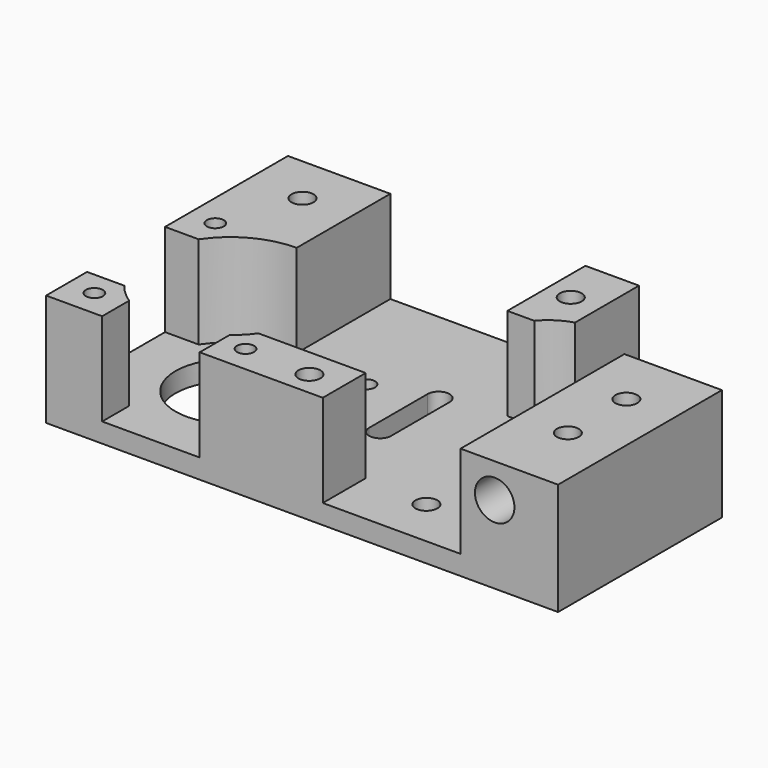
from build123d import *

# Parameters (mm, degrees)
SKETCH_R        = 2.25
SKETCH_R_2      = 11.25
SKETCH_R_3      = 1.75
PAD_DEPTH       = 23
POCKET_DEPTH    = 19
SKETCH004_R     = 2.25
POCKET003_DEPTH = 10
SKETCH005_R     = 4.05
POCKET004_DEPTH = 12
SKETCH006_R     = 3.75
POCKET005_DEPTH = 10


with BuildPart() as pocket005:
    # Sketch → Pad (new body)
    with BuildSketch(Plane.XY):
        Polygon((0, 0), (105, 0), (105, 62), (20, 62), (20, 42), (0, 42), align=None)
        with Locations((35, 10)):
            Circle(SKETCH_R, mode=Mode.SUBTRACT)
        with Locations((30, 35)):
            Circle(SKETCH_R, mode=Mode.SUBTRACT)
        with Locations((84, 21)):
            Circle(SKETCH_R_2, mode=Mode.SUBTRACT)
        with Locations((68.5, 36.5)):
            Circle(SKETCH_R_3, mode=Mode.SUBTRACT)
        with Locations((99.5, 36.5)):
            Circle(SKETCH_R_3, mode=Mode.SUBTRACT)
        with Locations((68.5, 5.5)):
            Circle(SKETCH_R_3, mode=Mode.SUBTRACT)
        with Locations((99.5, 5.5)):
            Circle(SKETCH_R_3, mode=Mode.SUBTRACT)
        with Locations((10, 30)):
            Circle(SKETCH_R, mode=Mode.SUBTRACT)
        with Locations((10, 15)):
            Circle(SKETCH_R, mode=Mode.SUBTRACT)
        with Locations((39, 52)):
            Circle(SKETCH_R, mode=Mode.SUBTRACT)
        with Locations((94, 52)):
            Circle(SKETCH_R, mode=Mode.SUBTRACT)
        with BuildLine():
            Line((58.75, 25), (58.75, 40))
            ThreePointArc((58.75, 40), (56.5, 42.25), (54.25, 40))
            Line((54.25, 25), (54.25, 40))
            ThreePointArc((54.25, 25), (56.5, 22.75), (58.75, 25))
        make_face(mode=Mode.SUBTRACT)
    extrude(amount=PAD_DEPTH)

    # Sketch001 → Pocket (cut)
    with BuildSketch(Plane.XY.offset(23)):
        with BuildLine():
            ThreePointArc((38.485281, 42), (36.015595, 44.209377), (32.999996, 45.583006))
            Line((32.999996, 67), (32.999996, 45.583006))
            Line((20, 67), (32.999996, 67))
            Line((20, -1), (20, 67))
            Line((20, -1), (48.252269, -1))
            Line((48.252269, 11), (48.252269, -1))
            Line((48.252269, 11), (70.252269, 11))
            ThreePointArc((70.252269, 11), (71.759618, 9.202833), (73.499996, 7.630258))
            Line((73.499996, 7.630258), (73.499996, -1))
            Line((73.499996, -1), (93.499996, -1))
            Line((93.499996, -1), (93.499996, 6.902128))
            ThreePointArc((93.499996, 6.902128), (95.574295, 8.548671), (97.367695, 10.497399))
            Line((105.499996, 10.497399), (97.367695, 10.497399))
            Line((105.499996, 30.497399), (105.499996, 10.497399))
            Line((98.099621, 30.497399), (105.499996, 30.497399))
            ThreePointArc((98.099621, 30.497399), (91.98574, 36.007594), (83.999996, 38))
            Line((83.999996, 38), (83.999996, 67))
            Line((83.999996, 67), (43.999996, 67))
            Line((43.999996, 67), (43.999996, 42))
            Line((38.485281, 42), (43.999996, 42))
        make_face()
    extrude(amount=-POCKET_DEPTH, mode=Mode.SUBTRACT)

    # Sketch004 → Pocket003 (cut)
    with BuildSketch(Plane.XY.offset(23)):
        with Locations((55, 5)):
            Circle(SKETCH004_R)
    extrude(amount=-POCKET003_DEPTH, mode=Mode.SUBTRACT)

    # Sketch005 → Pocket004 (cut)
    with BuildSketch(Plane.XZ):
        with Locations((13, 16)):
            Circle(SKETCH005_R)
    extrude(amount=-POCKET004_DEPTH, mode=Mode.SUBTRACT)

    # Sketch006 → Pocket005 (cut)
    with BuildSketch(Plane(origin=(0, 0, 0), x_dir=(1, 0, 0), z_dir=(0, 0, -1))):
        with Locations((10, -15)):
            Circle(SKETCH006_R)
        with Locations((10, -30)):
            Circle(SKETCH006_R)
        with Locations((39, -52)):
            Circle(SKETCH006_R)
        with Locations((94, -52)):
            Circle(SKETCH006_R)
    extrude(amount=-POCKET005_DEPTH, mode=Mode.SUBTRACT)


with BuildPart() as part_mirroring:
    # Part__Mirroring: instance of Pocket005
    add(pocket005.part.mirror(Plane(origin=(0, 0, 0), x_dir=(0, -1, 0), z_dir=(1, 0, 0))))


solid = part_mirroring.part
